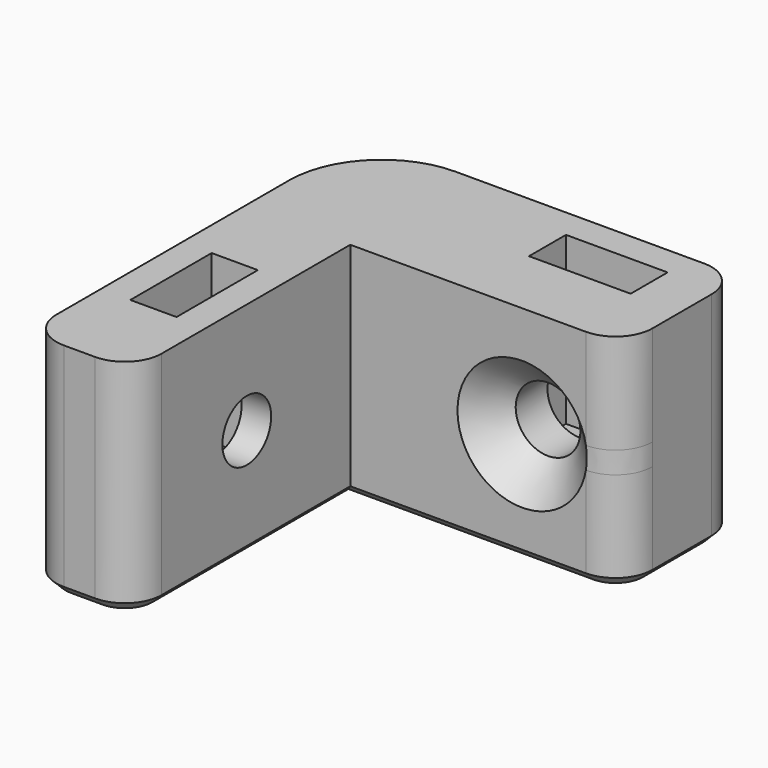
from build123d import *

# Parameters (mm, degrees)
F0_W           = 2.5
F0_H           = 5.5
F0_W_2         = 5.5
F0_H_2         = 2.5
F1_DEPTH       = 6
F1_DEPTH_BACK  = 6
F2_W           = 2.5
F2_H           = 5.5
F2_W_2         = 5.5
F2_H_2         = 2.5
F3_DEPTH       = 3
F6_D           = 3.3
F6_DEPTH       = 100
F6_TIP         = 0.9914200214
F7_D           = 3.5
F7_DEPTH       = 100
F7_CSINK_D     = 7
F7_CSINK_ANGLE = 90
F7_TIP         = 1.0515060833
F8_R           = 5
F9_R           = 2
F10_SIZE       = 0.5


with BuildPart() as f1:
    # F0 (on Top) → F1 (new body, two sides)
    with BuildSketch(Plane.XY) as f1_sk:
        Polygon((-15, 15), (-15, -7.75), (-9.3, -7.75), (-9.3, 7), (5.45, 7), (5.45, 15), align=None)
        with Locations((-12.15, 0)):
            Rectangle(F0_W, F0_H, mode=Mode.SUBTRACT)
        with Locations((0, 12.15)):
            Rectangle(F0_W_2, F0_H_2, mode=Mode.SUBTRACT)
    extrude(amount=F1_DEPTH)
    extrude(f1_sk.sketch, amount=-F1_DEPTH_BACK)

    # F2 (on face) → F3 (join)
    with BuildSketch(Plane(origin=(0, 0, -6), x_dir=(1, 0, 0), z_dir=(0, 0, -1))):
        with Locations((-12.15, 0)):
            Rectangle(F2_W, F2_H)
        with Locations((0, -12.15)):
            Rectangle(F2_W_2, F2_H_2)
    extrude(amount=-F3_DEPTH)

    # F6
    with Locations(Plane(origin=(-15, 0, 0), x_dir=(0, -1, 0), z_dir=(-1, 0, 0))):
        with Locations((0, 0)):
            Hole(F6_D / 2, depth=F6_DEPTH)
            with Locations((0, 0, -(F6_DEPTH + F6_TIP / 2))):  # 118° drill point
                Cone(0, F6_D / 2, F6_TIP, mode=Mode.SUBTRACT)

    # F7
    with Locations(Plane.XZ.offset(-7)):
        with Locations((0, 0)):
            CounterSinkHole(F7_D / 2, F7_CSINK_D / 2, depth=F7_DEPTH, counter_sink_angle=F7_CSINK_ANGLE)
            with Locations((0, 0, -(F7_DEPTH + F7_TIP / 2))):  # 118° drill point
                Cone(0, F7_D / 2, F7_TIP, mode=Mode.SUBTRACT)

    # F8
    f8_edges = [f1.edges().sort_by_distance(p)[0] for p in [
        (-15, 15, 0),
    ]]
    fillet(f8_edges, radius=F8_R)

    # F9
    f9_edges = [f1.edges().sort_by_distance(p)[0] for p in [
        (-15, -7.75, 0),
        (-9.3, -7.75, 0),
        (5.45, 7, 0),
        (5.45, 15, 0),
    ]]
    fillet(f9_edges, radius=F9_R)

    # F10
    f10_edges = [f1.edges().sort_by_distance(p)[0] for p in [
        (-3.275, 15, -6),
        (4.864214, 14.414214, -6),
        (-13.535534, 13.535534, -6),
        (5.45, 11, -6),
        (-15, 2.125, -6),
        (4.864214, 7.585786, -6),
        (-14.414214, -7.164214, -6),
        (-2.925, 7, -6),
        (-12.15, -7.75, -6),
        (-9.3, 0.625, -6),
        (-9.885786, -7.164214, -6),
    ]]
    chamfer(f10_edges, length=F10_SIZE)


solid = f1.part
